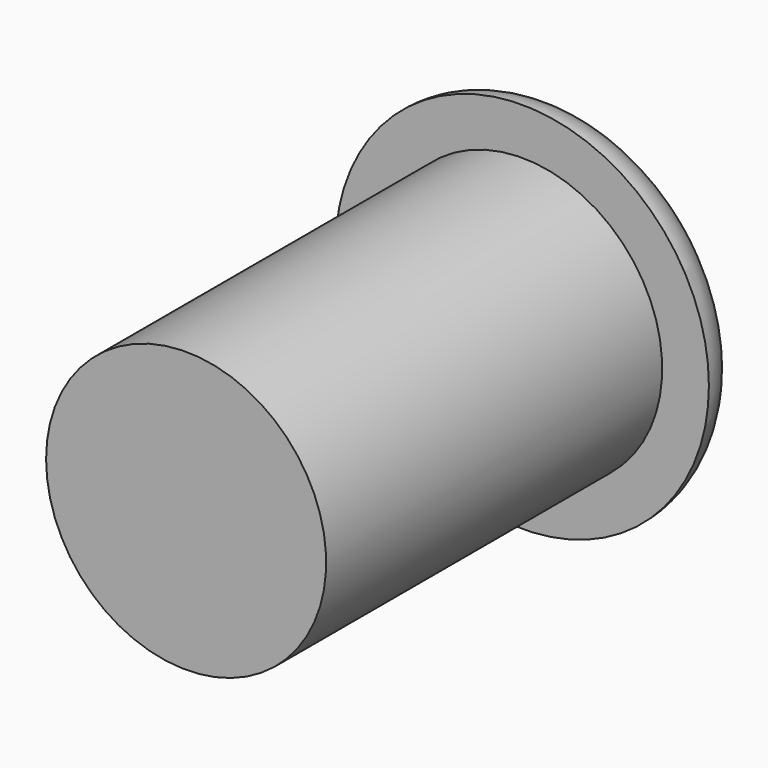
from build123d import *


with BuildPart() as f1:
    # F0 (on Top) → F1 (revolve)
    with BuildSketch(Plane.XY):
        with BuildLine():
            Line((-1.5, 0), (0, 0))
            Line((0, 0), (0, 5))
            Line((0, 5), (-1.5, 5))
            ThreePointArc((-1.5, 5), (-1.853553, 4.853553), (-2, 4.5))
            Line((-2, 4.5), (-1.5, 4.5))
            Line((-1.5, 4.5), (-1.5, 0))
        make_face()
    revolve(axis=Axis((0, 2.734766, 0), (0, 1, 0)))


solid = f1.part
